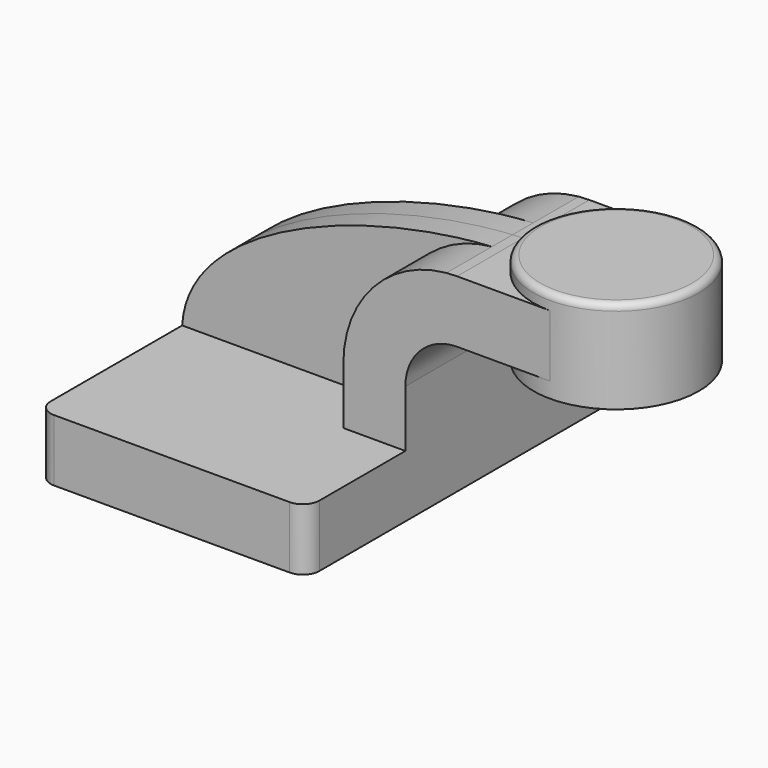
from build123d import *

# Parameters (mm, degrees)
F1_DEPTH = 63.5
F0_W     = 25.4
F0_H     = 19.05
F2_DEPTH = 25.4
F3_DEPTH = 7.9375
F5_R     = 5.08
F6_R     = 2.032


with BuildPart() as f1:
    # F0 (on Front) → F1 (new body, symmetric)
    with BuildSketch(Plane.XZ):
        Polygon((22.225, 9.525), (-41.275, 9.525), (-41.275, -9.525), (41.275, -9.525), (41.275, 9.525), align=None)
    extrude(amount=F1_DEPTH, both=True)

    # F0 (on Front) → F2 (join, symmetric)
    with BuildSketch(Plane.XZ):
        with BuildLine():
            Line((22.225, 27.0002), (22.225, 9.525))
            Line((22.225, 9.525), (41.275, 9.525))
            Line((41.275, 9.525), (41.275, 27.0002))
            ThreePointArc((41.275, 27.0002), (45.9246798487, 38.2255201513), (57.15, 42.8752))
            Line((57.15, 42.8752), (60.325, 42.8752))
            Line((60.325, 42.8752), (60.325, 61.9252))
            Line((60.325, 61.9252), (57.15, 61.9252))
            add(Edge.make_bspline(
                [(53.8854342407, 61.7722898912), (54.9842067368, 61.8365871986), (56.0728453275, 61.8876096574), (57.15, 61.9252)],
                knots=[108.5245810491, 108.5245810491, 108.5245810491, 108.5245810491, 111.5045361635, 111.5045361635, 111.5045361635, 111.5045361635], degree=3))
            ThreePointArc((53.8854342407, 61.7722898912), (31.3258777096, 50.5133948686), (22.225, 27.0002))
        make_face()
        with Locations((73.025, 52.4002)):
            Rectangle(F0_W, F0_H)
    extrude(amount=F2_DEPTH, both=True)

    # F0 (on Front) → F3 (join, symmetric)
    with BuildSketch(Plane.XZ):
        with BuildLine():
            add(Edge.make_bspline(
                [(-41.275, 9.525), (-39.5856284224, 39.4828766469), (13.870125209, 59.4306981306), (53.8854342407, 61.7722898912)],
                knots=[0, 0, 0, 0, 108.5245810491, 108.5245810491, 108.5245810491, 108.5245810491], degree=3))
            Line((-41.275, 9.525), (22.225, 9.525))
            Line((22.225, 9.525), (22.225, 27.0002))
            ThreePointArc((22.225, 27.0002), (31.3258777096, 50.5133948686), (53.8854342407, 61.7722898912))
        make_face()
    extrude(amount=F3_DEPTH, both=True)

    # F0 (on Front) → F4 (revolve)
    with BuildSketch(Plane.XZ):
        Polygon((85.725, 66.675), (85.725, 61.9252), (85.725, 42.8752), (85.725, 38.1), (111.125, 38.1), (111.125, 66.675), align=None)
    revolve(axis=Axis((85.725, 0, 52.3875), (0, 0, 1)))

    # F5
    f5_edges = [f1.edges().sort_by_distance(p)[0] for p in [
        (41.275, -63.5, 0),
        (-41.275, -63.5, 0),
        (41.275, 63.5, 0),
        (-41.275, 63.5, 0),
    ]]
    fillet(f5_edges, radius=F5_R)

    # F6
    f6_edges = [f1.edges().sort_by_distance(p)[0] for p in [
        (60.325, 0, 66.675),
    ]]
    fillet(f6_edges, radius=F6_R)


solid = f1.part
